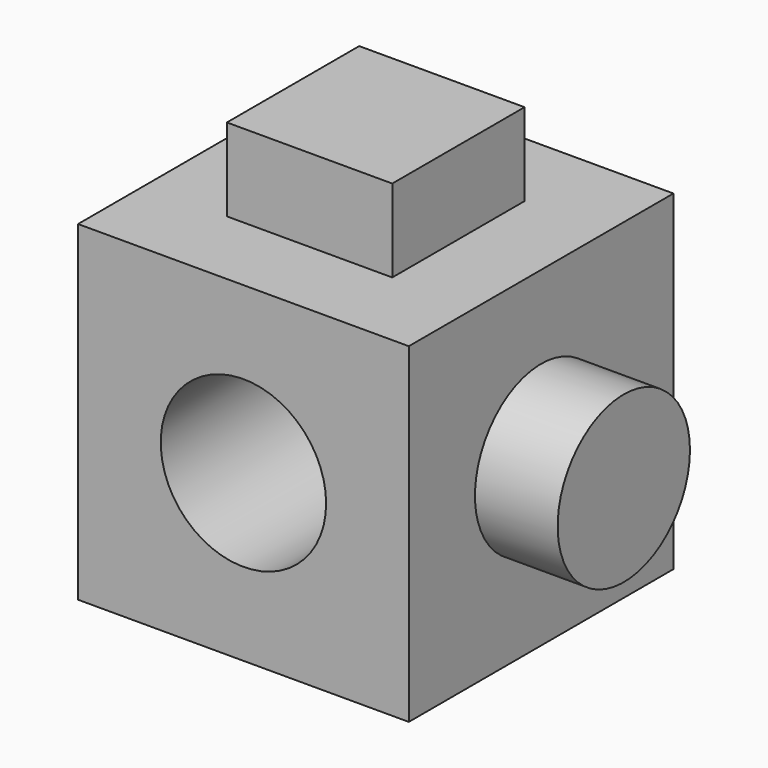
from build123d import *

# Parameters (mm, degrees)
F0_W     = 50.8
F0_H     = 50.8
F1_DEPTH = 50.8
F2_R     = 12.7
F3_DEPTH = 50.8
F4_W     = 25.4
F4_H     = 25.4
F5_DEPTH = 12.7
F6_R     = 12.7
F7_DEPTH = 12.7


with BuildPart() as f1:
    # F0 (on Front) → F1 (new body)
    with BuildSketch(Plane.XZ):
        with Locations((0.135109, 4.120745)):
            Rectangle(F0_W, F0_H)
    extrude(amount=F1_DEPTH)

    # F2 (on face) → F3 (cut)
    with BuildSketch(Plane.XZ.offset(50.8)):
        with Locations((0.135109, 4.120745)):
            Circle(F2_R)
    extrude(amount=-F3_DEPTH, mode=Mode.SUBTRACT)

    # F4 (on face) → F5 (join)
    with BuildSketch(Plane.XY.offset(29.520745)):
        with Locations((0.135109, -25.4)):
            Rectangle(F4_W, F4_H)
    extrude(amount=F5_DEPTH)

    # F6 (on face) → F7 (join)
    with BuildSketch(Plane.YZ.offset(25.535109)):
        with Locations((-25.4, 4.120745)):
            Circle(F6_R)
    extrude(amount=F7_DEPTH)


solid = f1.part
